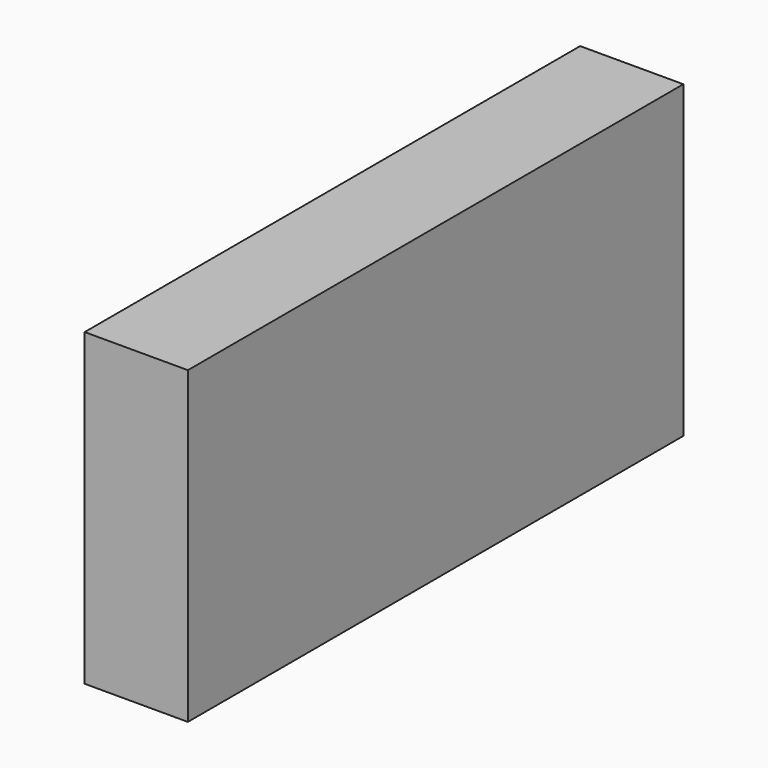
from build123d import *

# Parameters (mm, degrees)
BOX015_W               = 12
BOX015_H               = 10
BOX015_DEPTH           = 12
ARRAY001_X_COUNT       = 4
ARRAY001_X_PITCH       = 14.4
ARRAY001_Z_COUNT       = 2
ARRAY001_Z_PITCH       = 14
BOX014_W               = 60
BOX014_H               = 10
BOX014_DEPTH           = 30
CUT002_PLACEMENT_ANGLE = 90


with BuildPart() as obj1:
    # Box015 → Box015 (new body)
    with BuildSketch(Plane.XY):
        with Locations((6, 5)):
            Rectangle(BOX015_W, BOX015_H)
    extrude(amount=BOX015_DEPTH)

    # Array001 X: obj1 ×4


with BuildPart() as obj1_1:
    add(obj1.part)
    with Locations(*[(i * ARRAY001_X_PITCH, 0, 0) for i in range(1, ARRAY001_X_COUNT)]):
        add(obj1.part)

    # Array001 Z: obj1_2


with BuildPart() as obj1_2:
    add(obj1_1.part)
    with Locations(*[(0, 0, i * ARRAY001_Z_PITCH) for i in range(1, ARRAY001_Z_COUNT)]):
        add(obj1_1.part)


with BuildPart() as obj1_3:
    # Array001 placement: moved
    add(obj1_2.part.moved(Location((27.4, 91, 2))))


with BuildPart() as obj2:
    # Box014 → Box014 (new body)
    with BuildSketch(Plane(origin=(25, 90, 0), x_dir=(1, 0, 0), z_dir=(0, 0, 1))):
        with Locations((30, 5)):
            Rectangle(BOX014_W, BOX014_H)
    extrude(amount=BOX014_DEPTH)

    # Cut002: cut obj1
    add(obj1_3.part, mode=Mode.SUBTRACT)


with BuildPart() as obj2_1:
    # Cut002 placement: moved
    add(obj2.part.moved(Location((210, 0, 97))).rotate(Axis((210, 0, 97), (0, 0, 1)), CUT002_PLACEMENT_ANGLE))


solid = obj2_1.part
